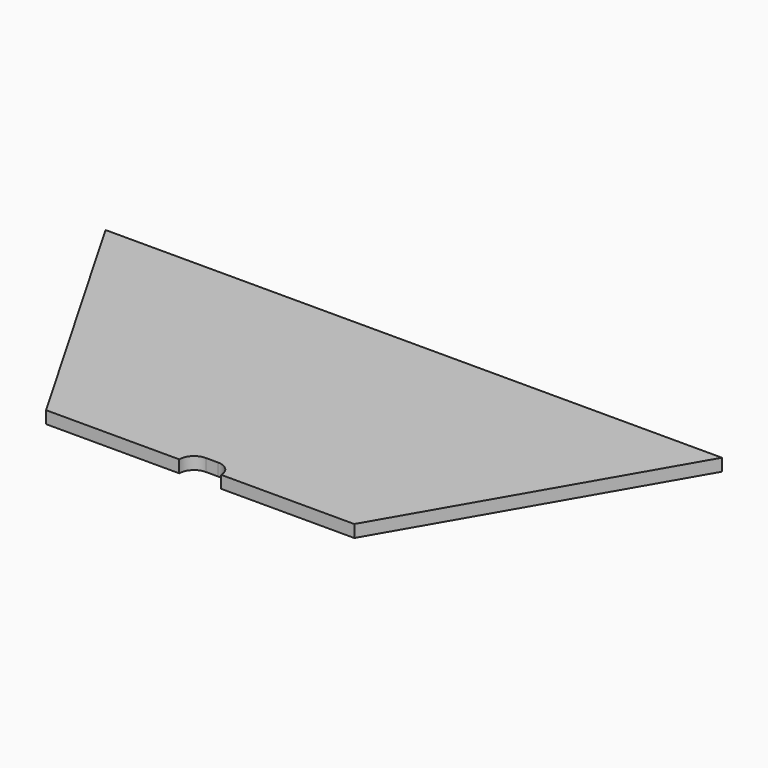
from build123d import *

# Parameters (mm, degrees)
F1_DEPTH = 0.5
F3_DEPTH = 0.501
F5_DEPTH = 0.501


with BuildPart() as f1:
    # F0 (on Top) → F1 (new body)
    with BuildSketch(Plane.XY):
        Polygon((6.25, -10.825318), (12.5, 0), (6.25, 10.825318), (-6.25, 10.825318), (-12.5, 0), (-6.25, -10.825318), align=None)
    extrude(amount=F1_DEPTH)

    # F2 (on face) → F3 (cut, through all)
    with BuildSketch(Plane.XY.offset(0.5)):
        with BuildLine():
            ThreePointArc((0.85, -10.825318), (0.674264, -10.401053), (0.25, -10.225318))
            Line((0.25, -10.225318), (-0.25, -10.225318))
            ThreePointArc((-0.25, -10.225318), (-0.674264, -10.401053), (-0.85, -10.825318))
            Line((-0.85, -10.825318), (0.85, -10.825318))
        make_face()
    extrude(amount=-F3_DEPTH, mode=Mode.SUBTRACT)

    # F4 (on face) → F5 (cut, through all)
    with BuildSketch(Plane.XY.offset(0.5)):
        Polygon((-6.25, 10.825318), (-12.5, 0), (12.5, 0), (6.25, 10.825318), align=None)
    extrude(amount=-F5_DEPTH, mode=Mode.SUBTRACT)


solid = f1.part
